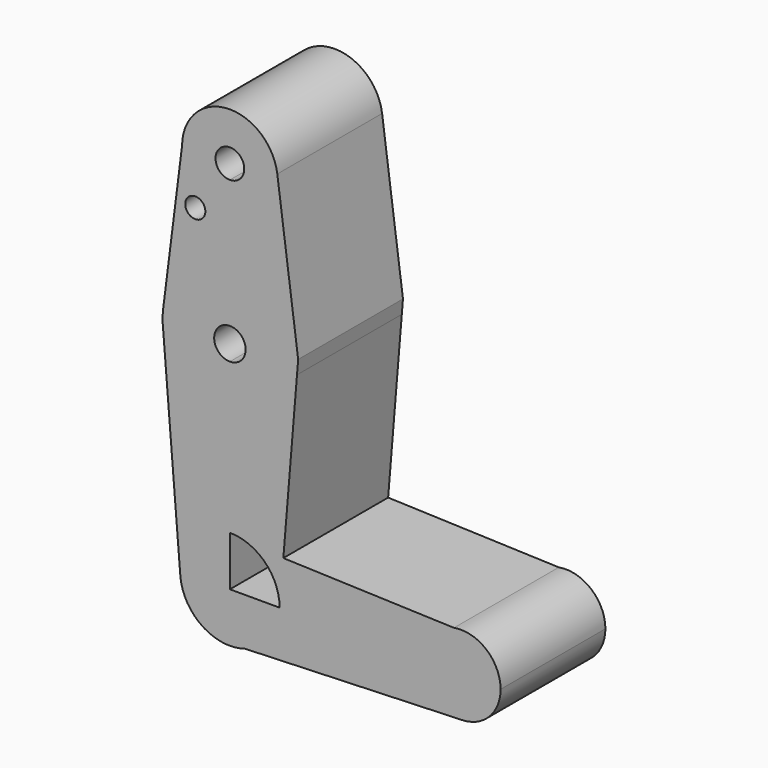
from build123d import *

# Parameters (mm, degrees)
F0_R     = 1.9516701111
F1_DEPTH = 25.4


with BuildPart() as f1:
    # F0 (on Front) → F1 (new body)
    with BuildSketch(Plane.XZ):
        with BuildLine():
            Line((37.1291698426, 0), (9.6446448501, 0))
            ThreePointArc((9.6446448501, 0), (7.7837214573, -5.6949850359), (2.9190774365, -9.1922881376))
            Line((2.9190774365, -9.1922881376), (45.0823133999, -7.6714424568))
            ThreePointArc((45.0823133999, -7.6714424568), (39.4762749652, -5.5250231179), (37.1291698426, 0))
        make_face()
        with BuildLine():
            ThreePointArc((2.9190774365, -9.1922881376), (7.7837214573, -5.6949850359), (9.6446448501, 0))
            Line((9.6446448501, 0), (0, 0))
            Line((0, 0), (0, 9.6446448501))
            ThreePointArc((0, 9.6446448501), (-7.0908917262, 6.5374634846), (-9.6128880749, -0.7820211918))
            ThreePointArc((-9.6128880749, -0.7820211918), (-5.3744695311, -8.0083863258), (2.9190774365, -9.1922881376))
        make_face()
        with BuildLine():
            Line((10.3620110353, 8.700865159), (9.6446448501, 0))
            Line((9.6446448501, 0), (37.1291698426, 0))
            ThreePointArc((37.1291698426, 0), (38.9158905919, 4.9233024971), (43.4443197411, 7.5547674796))
            Line((43.4443197411, 7.5547674796), (10.3620110353, 8.700865159))
        make_face()
        with BuildLine():
            ThreePointArc((3.6336646195, 8.9339608079), (8.0020178406, 5.3839469502), (9.6446448501, 0))
            Line((9.6446448501, 0), (10.3620110353, 8.700865159))
            Line((10.3620110353, 8.700865159), (3.6336646195, 8.9339608079))
        make_face()
        with BuildLine():
            ThreePointArc((0, 9.6446448501), (1.8512556803, 9.4653064763), (3.6336646195, 8.9339608079))
            Line((3.6336646195, 8.9339608079), (10.3620110353, 8.700865159))
            Line((10.3620110353, 8.700865159), (13.0115798458, 40.8372292964))
            ThreePointArc((13.0115798458, 40.8372292964), (8.8443824383, 32.3064131539), (0, 28.8542750373))
            Line((0, 28.8542750373), (0, 9.6446448501))
        make_face()
        with BuildLine():
            ThreePointArc((43.4443197411, 7.5547674796), (38.9158905919, 4.9233024971), (37.1291698426, 0))
            ThreePointArc((37.1291698426, 0), (39.4762749652, -5.5250231179), (45.0823133999, -7.6714424568))
            ThreePointArc((45.0823133999, -7.6714424568), (50.3306243571, -5.329326274), (52.4820326358, 0))
            ThreePointArc((52.4820326358, 0), (49.7289037363, 5.8897106473), (43.4443197411, 7.5547674796))
        make_face()
        with BuildLine():
            ThreePointArc((-9.6128880749, -0.7820211918), (-7.0908917262, 6.5374634846), (0, 9.6446448501))
            Line((0, 9.6446448501), (0, 28.8542750373))
            ThreePointArc((0, 28.8542750373), (-8.6342774846, 32.1170825655), (-12.9529038192, 40.2746635322))
            Line((-12.9529038192, 40.2746635322), (-9.6128880749, -0.7820211918))
        make_face()
        with BuildLine():
            ThreePointArc((0, 28.8542750373), (8.8443824383, 32.3064131539), (13.0115798458, 40.8372292964))
            ThreePointArc((13.0115798458, 40.8372292964), (13.0446869171, 41.3731625486), (13.0557288334, 41.9100038707))
            ThreePointArc((13.0557288334, 41.9100038707), (9.2317943914, 51.1417982622), (0, 54.9657327041))
            Line((0, 54.9657327041), (0, 44.9580078945))
            ThreePointArc((0, 44.9580078945), (2.1552643143, 44.065268185), (3.0480040237, 41.9100038707))
            ThreePointArc((3.0480040237, 41.9100038707), (2.1552643143, 39.7547395565), (0, 38.861999847))
            Line((0, 38.861999847), (0, 28.8542750373))
        make_face()
        with BuildLine():
            ThreePointArc((13.0557288334, 41.9100038707), (13.0446869171, 41.3731625486), (13.0115798458, 40.8372292964))
            Line((13.0115798458, 40.8372292964), (13.2348576497, 43.5453442093))
            Line((13.2348576497, 43.5453442093), (9.1919274586, 73.8787212154))
            ThreePointArc((9.1919274586, 73.8787212154), (9.2528690506, 73.2675031682), (9.2732126679, 72.6535915165))
            ThreePointArc((9.2732126679, 72.6535915165), (6.5571515608, 66.0964399557), (0, 63.3803788486))
            Line((0, 63.3803788486), (0, 54.9657327041))
            ThreePointArc((0, 54.9657327041), (9.2317943914, 51.1417982622), (13.0557288334, 41.9100038707))
        make_face()
        with BuildLine():
            ThreePointArc((-12.9529038192, 40.2746635322), (-8.6342774846, 32.1170825655), (0, 28.8542750373))
            Line((0, 28.8542750373), (0, 38.861999847))
            ThreePointArc((0, 38.861999847), (-3.0480040237, 41.9100038707), (0, 44.9580078945))
            Line((0, 44.9580078945), (0, 54.9657327041))
            ThreePointArc((0, 54.9657327041), (-8.6342774846, 51.702925176), (-12.9529038192, 43.5453442093))
            ThreePointArc((-12.9529038192, 43.5453442093), (-13.0557288334, 41.9100038707), (-12.9529038192, 40.2746635322))
        make_face()
        with BuildLine():
            Line((-9.2731356865, 72.6913767354), (-12.9529038192, 43.5453442093))
            ThreePointArc((-12.9529038192, 43.5453442093), (-8.6342774846, 51.702925176), (0, 54.9657327041))
            Line((0, 54.9657327041), (0, 63.3803788486))
            ThreePointArc((0, 63.3803788486), (-6.5704970723, 66.1098126842), (-9.2731356865, 72.6913767354))
        make_face()
        with Locations((-6.7055993713, 62.9412010312)):
            Circle(F0_R, mode=Mode.SUBTRACT)
        with BuildLine():
            ThreePointArc((9.2732126679, 72.6535915165), (9.2528690506, 73.2675031682), (9.1919274586, 73.8787212154))
            ThreePointArc((9.1919274586, 73.8787212154), (-0.5950591757, 81.9076921082), (-9.2731356865, 72.6913767354))
            ThreePointArc((-9.2731356865, 72.6913767354), (-6.5704970723, 66.1098126842), (0, 63.3803788486))
            ThreePointArc((0, 63.3803788486), (6.5571515608, 66.0964399557), (9.2732126679, 72.6535915165))
        make_face()
        with BuildLine():
            ThreePointArc((2.7834737535, 72.6535915165), (1.9682131664, 70.6853783502), (0, 69.870117763))
            ThreePointArc((0, 69.870117763), (-1.9682131664, 74.6218046829), (2.7834737535, 72.6535915165))
        make_face(mode=Mode.SUBTRACT)
    extrude(amount=F1_DEPTH)


solid = f1.part
